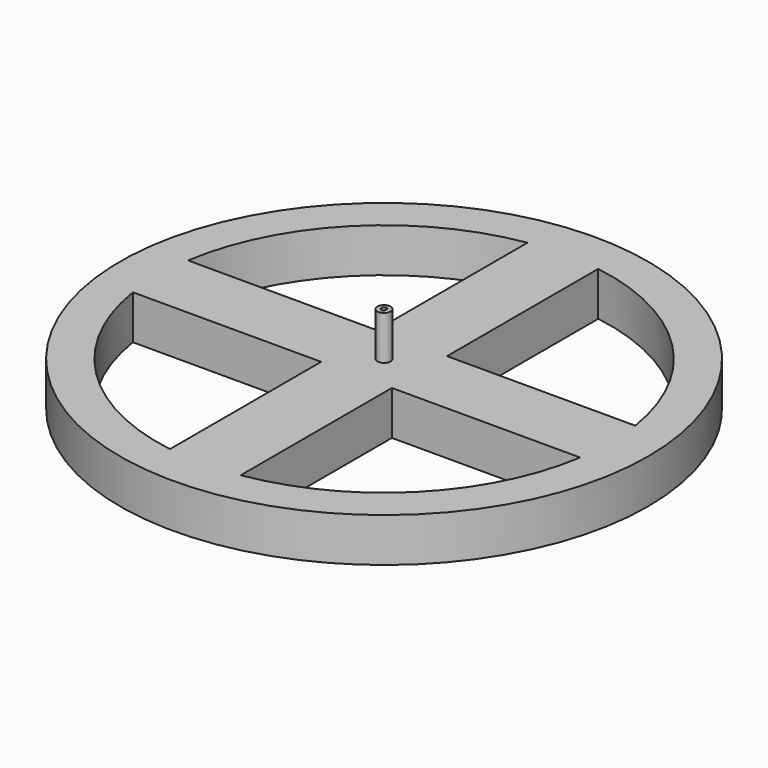
from build123d import *

# Parameters (mm, degrees)
F0_R          = 152.4
F1_DEPTH      = 12.7
F1_DEPTH_BACK = 12.7
F2_R          = 3.858191
F2_R_2        = 1.5875
F3_DEPTH      = 25.4
F5_DEPTH      = 25.401
F6_W          = 0.887787
F6_H          = 5.147254
F7_DEPTH      = 25.4
F8_R          = 6.462154
F8_R_2        = 3.194713
F9_DEPTH      = 6.985


with BuildPart() as f1:
    # F0 (on Top) → F1 (new body, two sides)
    with BuildSketch(Plane.XY) as f1_sk:
        Circle(F0_R)
    extrude(amount=F1_DEPTH)
    extrude(f1_sk.sketch, amount=-F1_DEPTH_BACK)

    # F2 (on face) → F3 (join)
    with BuildSketch(Plane.XY.offset(12.7)):
        Circle(F2_R)
        Circle(F2_R_2, mode=Mode.SUBTRACT)
    extrude(amount=F3_DEPTH)

    # F4 (on face) → F5 (cut, through all)
    with BuildSketch(Plane.XY.offset(12.7)):
        with BuildLine():
            Line((-20.428086, -19.901165), (-129.102567, -19.901165))
            ThreePointArc((-129.102567, -19.901165), (-92.555914, -92.178804), (-20.428086, -129.02024))
            Line((-20.428086, -129.02024), (-20.428086, -19.901165))
        make_face()
        with BuildLine():
            Line((-129.102567, 19.901165), (-20.428086, 19.901165))
            Line((-20.428086, 19.901165), (-20.428086, 129.02024))
            ThreePointArc((-20.428086, 129.02024), (-92.555914, 92.178804), (-129.102567, 19.901165))
        make_face()
        with BuildLine():
            Line((20.428086, 129.02024), (20.428086, 19.901165))
            Line((20.428086, 19.901165), (129.102567, 19.901165))
            ThreePointArc((129.102567, 19.901165), (92.555914, 92.178804), (20.428086, 129.02024))
        make_face()
        with BuildLine():
            ThreePointArc((20.428086, -129.02024), (92.555914, -92.178804), (129.102567, -19.901165))
            Line((129.102567, -19.901165), (20.428086, -19.901165))
            Line((20.428086, -19.901165), (20.428086, -129.02024))
        make_face()
    extrude(amount=-F5_DEPTH, mode=Mode.SUBTRACT)

    # F6 (on face) → F7 (join)
    with BuildSketch(Plane.XY.offset(12.7)):
        with Locations((1.491769, -0.241479)):
            Rectangle(F6_W, F6_H)
    extrude(amount=F7_DEPTH)

    # F8 (on face) → F9 (join)
    with BuildSketch(Plane(origin=(0, 0, -12.7), x_dir=(1, 0, 0), z_dir=(0, 0, -1))):
        Circle(F8_R)
        Circle(F8_R_2, mode=Mode.SUBTRACT)
    extrude(amount=F9_DEPTH)


solid = f1.part
